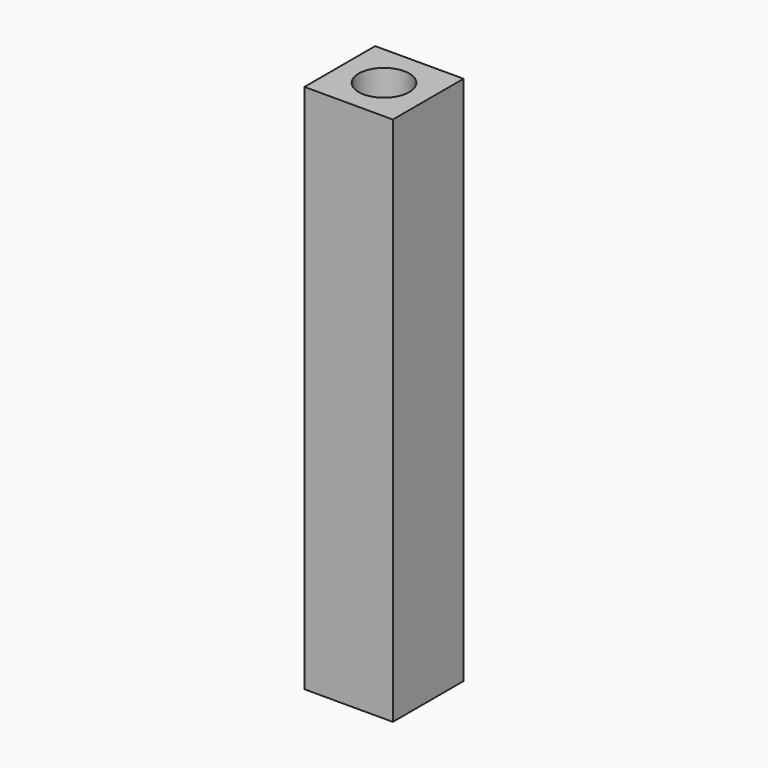
from build123d import *

# Parameters (mm, degrees)
F0_W     = 10
F0_H     = 10
F1_DEPTH = 60
F2_R     = 2.8575
F3_DEPTH = 10.16
F4_R     = 2.8575
F5_DEPTH = 10.16


with BuildPart() as f1:
    # F0 (on Top) → F1 (new body)
    with BuildSketch(Plane.XY):
        Rectangle(F0_W, F0_H)
    extrude(amount=F1_DEPTH)

    # F2 (on Top) → F3 (cut)
    with BuildSketch(Plane.XY):
        Circle(F2_R)
    extrude(amount=F3_DEPTH, mode=Mode.SUBTRACT)

    # F4 (on face) → F5 (cut)
    with BuildSketch(Plane.XY.offset(60)):
        Circle(F4_R)
    extrude(amount=-F5_DEPTH, mode=Mode.SUBTRACT)


solid = f1.part
